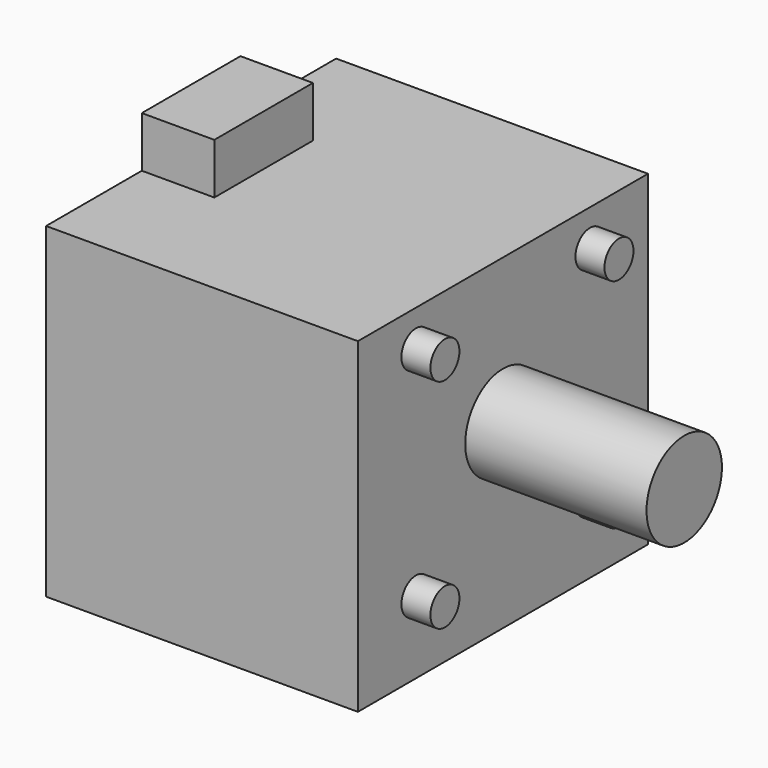
from build123d import *

# Parameters (mm, degrees)
CYLINDER001_R             = 2.5
CYLINDER001_DEPTH         = 4
CYLINDER_R                = 6.5
CYLINDER_DEPTH            = 25
BOX_W                     = 45
BOX_H                     = 50
BOX_DEPTH                 = 43
BOX001_W                  = 7
BOX001_H                  = 17
BOX001_DEPTH              = 10
FUSION001_PITCH_ANGLE     = -90
FUSION001_PLACEMENT_ANGLE = -180


with BuildPart() as obj1:
    # Cylinder001 → Cylinder001 (new body)
    with BuildSketch(Plane(origin=(10, 10, 43), x_dir=(1, 0, 0), z_dir=(0, 0, 1))):
        Circle(CYLINDER001_R)
    extrude(amount=CYLINDER001_DEPTH)


with BuildPart() as obj2:
    # Link001 base: copy of obj1
    add(obj1.part)


with BuildPart() as obj2_1:
    # Link001 placement: moved
    add(obj2.part.moved(Location((30, 0, 0))))


with BuildPart() as obj3:
    # Link base: copy of obj1
    add(obj1.part)


with BuildPart() as obj3_1:
    # Link placement: moved
    add(obj3.part.moved(Location((0, 30, 0))))


with BuildPart() as rotor:
    # Cylinder → Cylinder (new body)
    with BuildSketch(Plane(origin=(25, 25, 43), x_dir=(1, 0, 0), z_dir=(0, 0, 1))):
        Circle(CYLINDER_R)
    extrude(amount=CYLINDER_DEPTH)


with BuildPart() as base_motor:
    # Box → Box (new body)
    with BuildSketch(Plane.XY):
        with Locations((22.5, 25)):
            Rectangle(BOX_W, BOX_H)
    extrude(amount=BOX_DEPTH)


with BuildPart() as carcasa_motor:
    # Box001 → Box001 (new body)
    with BuildSketch(Plane(origin=(45, 16.5, 0), x_dir=(1, 0, 0), z_dir=(0, 0, 1))):
        with Locations((3.5, 8.5)):
            Rectangle(BOX001_W, BOX001_H)
    extrude(amount=BOX001_DEPTH)

    # Fusion: union Base Motor
    add(base_motor.part)


with BuildPart() as motor:
    # Link002 base: copy of obj1
    add(obj1.part)


with BuildPart() as motor_1:
    # Link002 placement: moved
    add(motor.part.moved(Location((30, 30, 0))))

    # Fusion001: union obj2, obj3, obj1, Rotor, Carcasa motor
    add(obj2_1.part)
    add(obj3_1.part)
    add(obj1.part)
    add(rotor.part)
    add(carcasa_motor.part)


with BuildPart() as motor_2:
    # Fusion001 pitch: moved
    add(motor_1.part.rotate(Axis((0, 0, 0), (0, 1, 0)), FUSION001_PITCH_ANGLE))


with BuildPart() as motor_3:
    # Fusion001 placement: moved
    add(motor_2.part.moved(Location((0, 25, 7))).rotate(Axis((0, 25, 7), (0, 0, 1)), FUSION001_PLACEMENT_ANGLE))


solid = motor_3.part
